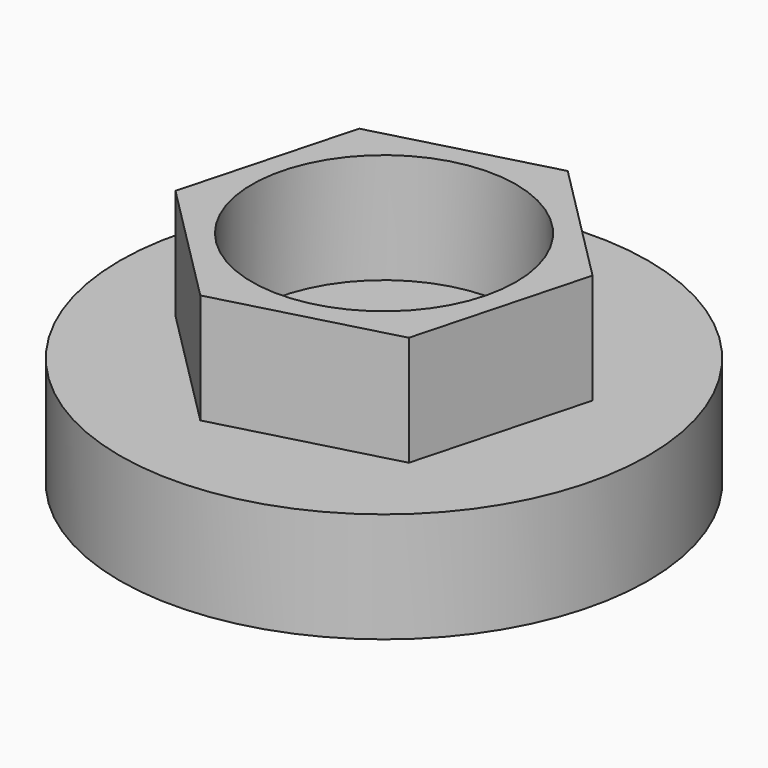
from build123d import *

# Parameters (mm, degrees)
F0_R     = 60
F1_DEPTH = 25
F2_R     = 30
F3_DEPTH = 25


with BuildPart() as f1:
    # F0 (on Top) → F1 (new body)
    with BuildSketch(Plane.XY):
        Circle(F0_R)
    extrude(amount=F1_DEPTH)

    # F2 (on face) → F3 (join)
    with BuildSketch(Plane.XY.offset(25)):
        Polygon((10.517425, 39.022008), (-28.535337, 28.619361), (-39.052763, -10.402646), (-10.517425, -39.022008), (28.535337, -28.619361), (39.052763, 10.402646), align=None)
        Circle(F2_R, mode=Mode.SUBTRACT)
    extrude(amount=F3_DEPTH)


solid = f1.part
